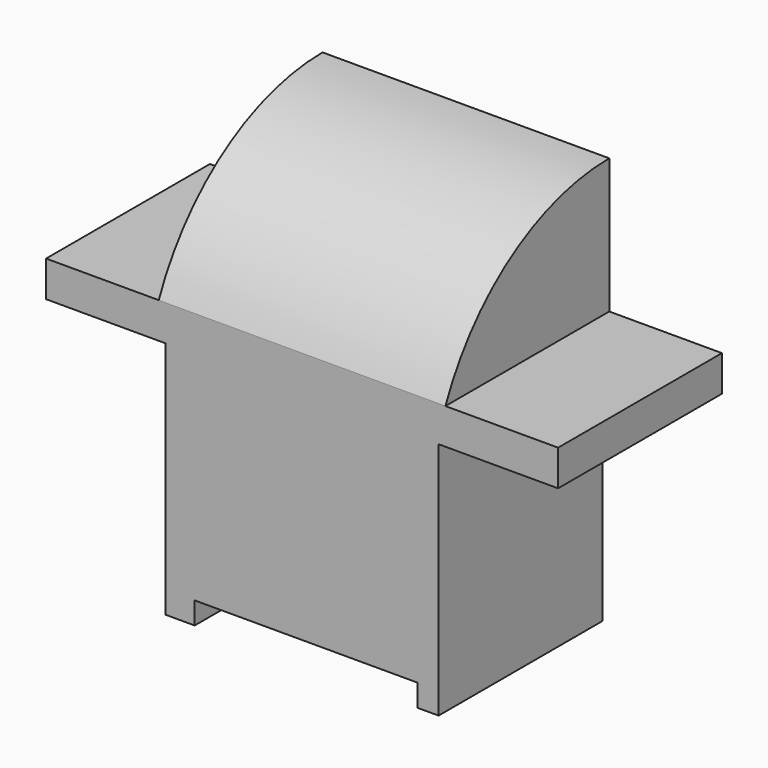
from build123d import *

# Parameters (mm, degrees)
F0_W     = 1500
F0_H     = 600
F1_DEPTH = 1200
F3_DEPTH = 1600
F4_W     = 350
F4_H     = 700
F5_DEPTH = 1500
F6_W     = 330
F6_H     = 420
F7_DEPTH = 2000
F8_W     = 653.322876
F8_H     = 64.883091
F9_DEPTH = 1500


with BuildPart() as f1:
    # F0 (on Top) → F1 (new body)
    with BuildSketch(Plane.XY):
        Rectangle(F0_W, F0_H)
    extrude(amount=F1_DEPTH)

    # F2 (on face) → F3 (cut)
    with BuildSketch(Plane.YZ.offset(750)):
        with BuildLine():
            ThreePointArc((-300, 804.887652), (-59.205292, 1092.350344), (300, 1200))
            Line((300, 1200), (-300, 1200))
            Line((-300, 1200), (-300, 804.887652))
        make_face()
    extrude(amount=-F3_DEPTH, mode=Mode.SUBTRACT)

    # F4 (on face) → F5 (cut)
    with BuildSketch(Plane.XZ.offset(300)):
        with Locations((-575, 350)):
            Rectangle(F4_W, F4_H)
        with Locations((575, 350)):
            Rectangle(F4_W, F4_H)
    extrude(amount=-F5_DEPTH, mode=Mode.SUBTRACT)

    # F6 (on face) → F7 (cut)
    with BuildSketch(Plane.XZ.offset(300)):
        with Locations((-585, 1014.887652)):
            Rectangle(F6_W, F6_H)
        with Locations((585, 1014.887652)):
            Rectangle(F6_W, F6_H)
    extrude(amount=-F7_DEPTH, mode=Mode.SUBTRACT)

    # F8 (on face) → F9 (cut)
    with BuildSketch(Plane.XZ.offset(300)):
        with Locations((12.039125, 32.441545)):
            Rectangle(F8_W, F8_H)
    extrude(amount=-F9_DEPTH, mode=Mode.SUBTRACT)


solid = f1.part
